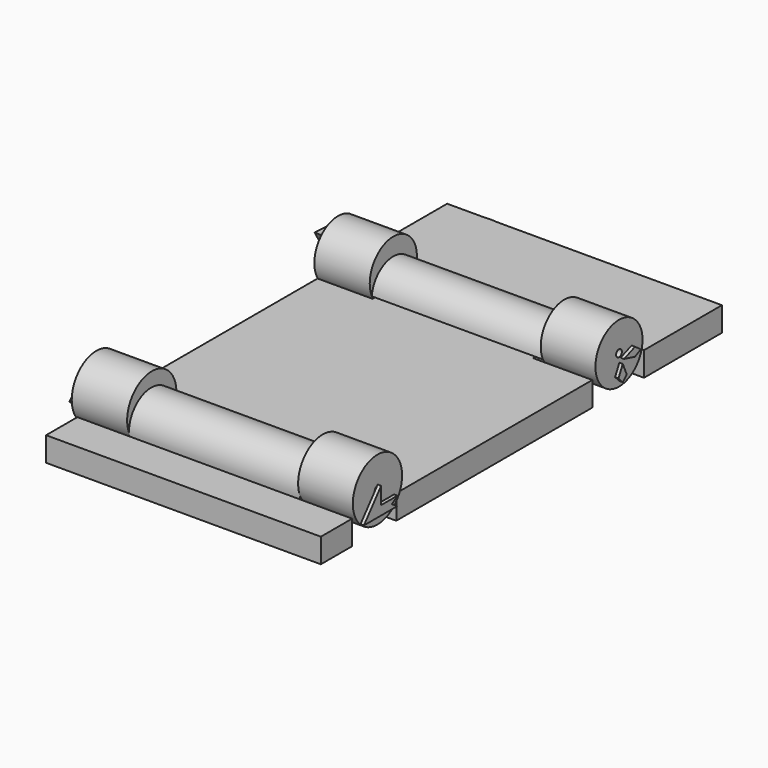
from build123d import *

# Parameters (mm, degrees)
F1_DEPTH  = 3.556
F2_R      = 0.522268
F2_R_2    = 0.293463
F3_DEPTH  = 12.5
F4_R      = 4.502538
F4_R_2    = 0.502665
F4_R_3    = 4.303776
F4_R_4    = 0.530849
F5_DEPTH  = 8
F6_R      = 4.50536
F6_R_2    = 0.52042
F6_R_3    = 4.311157
F6_R_4    = 0.518578
F7_DEPTH  = 8.1
F9_DEPTH  = 1
F11_DEPTH = 0.5


with BuildPart() as f1:
    # F0 (on Top) → F1 (new body)
    with BuildSketch(Plane.XY):
        with BuildLine():
            ThreePointArc((-12.822542, 35.078276), (-13.678138, 35.130364), (-14.533733, 35.078276))
            Line((-14.533733, 35.078276), (-12.822542, 35.078276))
        make_face()
        Polygon((-12.822542, 35.078276), (-14.533733, 35.078276), (-20.074653, 35.078276), (-20.074653, 31.048741), (-20.074653, 20.836137), (-12.021207, 20.836137), (-12.021207, 11.385883), (-20.074653, 11.385883), (-20.074653, -24.436552), (-12.021207, -24.436552), (-12.021207, -32.516379), (-20.074653, -32.516379), (-20.074653, -35.37388), (-20.074653, -38.23138), (-15.39694, -38.23138), (16.356725, -38.23138), (20.101037, -38.23138), (20.101037, -35.37388), (20.101037, -32.516379), (12.612414, -32.516379), (12.612414, -24.436552), (20.101037, -24.436552), (20.101037, 11.385883), (11.430001, 11.385883), (11.430001, 20.836137), (20.101037, 20.836137), (20.101037, 30.516615), (20.101037, 35.078276), (14.974757, 35.078276), align=None)
    extrude(amount=F1_DEPTH)


with BuildPart() as f3:
    # F2 (on Right) → F3 (new body, symmetric)
    with BuildSketch(Plane.YZ):
        with BuildLine():
            Line((-32.516532, 3.555826), (-24.425816, 3.555869))
            ThreePointArc((-24.425816, 3.555869), (-28.471198, 8.190474), (-32.516532, 3.555826))
        make_face()
        with Locations((-28.381243, 5.746942)):
            Circle(F2_R, mode=Mode.SUBTRACT)
        with BuildLine():
            Line((11.82367, 3.558025), (19.70811, 3.554932))
            ThreePointArc((19.70811, 3.554932), (15.767278, 7.094154), (11.82367, 3.558025))
        make_face()
        with Locations((15.754232, 5.315994)):
            Circle(F2_R_2, mode=Mode.SUBTRACT)
    extrude(amount=F3_DEPTH, both=True)


with BuildPart() as f5:
    # F4 (on face) → F5 (new body)
    with BuildSketch(Plane.YZ.offset(12.5)):
        with Locations((-28.381243, 5.746942)):
            Circle(F4_R)
        with Locations((-28.381243, 5.746942)):
            Circle(F4_R_2, mode=Mode.SUBTRACT)
        with Locations((15.764086, 5.350365)):
            Circle(F4_R_3)
        with Locations((15.764086, 5.350365)):
            Circle(F4_R_4, mode=Mode.SUBTRACT)
    extrude(amount=F5_DEPTH)


with BuildPart() as f7:
    # F6 (on face) → F7 (new body)
    with BuildSketch(Plane(origin=(-12.5, 0, 0), x_dir=(0, -1, 0), z_dir=(-1, 0, 0))):
        with Locations((28.381243, 5.746942)):
            Circle(F6_R)
        with Locations((28.381243, 5.746942)):
            Circle(F6_R_2, mode=Mode.SUBTRACT)
        with Locations((-15.768513, 5.335092)):
            Circle(F6_R_3)
        with Locations((-15.768513, 5.335092)):
            Circle(F6_R_4, mode=Mode.SUBTRACT)
    extrude(amount=F7_DEPTH)


with BuildPart() as f9:
    # F8 (on face) → F9 (new body)
    with BuildSketch(Plane(origin=(-20.6, 0, 0), x_dir=(0, -1, 0), z_dir=(-1, 0, 0))):
        Polygon((29.644795, 4.861619), (31.432573, 4.275721), (32.049, 4.861619), (31.441881, 5.500373), align=None)
        Polygon((29.104868, 3.065749), (28.128907, 4.861619), (27.149217, 3.065749), (28.072236, 2.504568), align=None)
        Polygon((-12.755205, 8.41512), (-18.98784, 8.136082), (-16.79337, 7.621754), (-18.576378, 6.901693), (-15.627559, 6.901693), (-15.627559, 3.609989), align=None)
    extrude(amount=F9_DEPTH)


with BuildPart() as f11:
    # F10 (on face) → F11 (new body)
    with BuildSketch(Plane.YZ.offset(20.5)):
        Polygon((16.073097, 4.653967), (18.050743, 4.123876), (19.131314, 4.653967), (18.071132, 5.408328), align=None)
        Polygon((15.053691, 2.553992), (15.82844, 1.758855), (16.562412, 2.452051), (15.82844, 4.123876), align=None)
        Polygon((-31.475514, 2.553992), (-25.37947, 2.553992), (-26.378486, 3.219116), (-25.338693, 3.891923), (-28.335746, 3.891923), (-28.335746, 6.379273), align=None)
    extrude(amount=F11_DEPTH)


solid = Compound([f1.part, f3.part, f5.part, f7.part, f9.part, f11.part])
